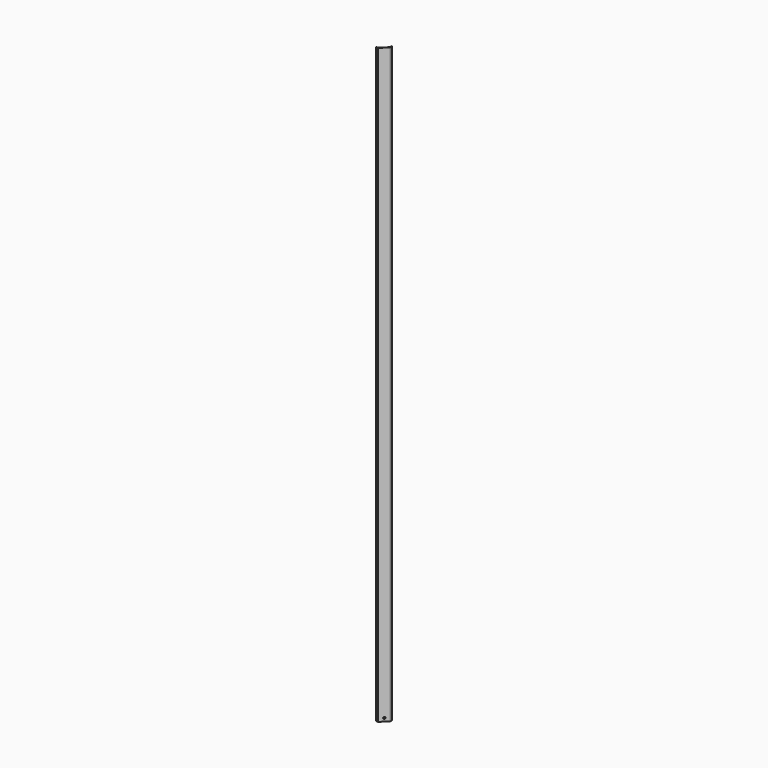
from build123d import *

# Parameters (mm, degrees)
F1_DEPTH = 28
F3_DEPTH = 2503
F5_DEPTH = 28
F6_R     = 2
F7_R     = 1
F8_R     = 4.25
F9_DEPTH = 25


with BuildPart() as f1:
    # F0 (on Top) → F1 (new body)
    with BuildSketch(Plane.XY):
        Polygon((-19.75, -17.750001), (-19.75, -19.75), (-9.25, -19.75), (19.75, 9.25), (19.75, 19.75), (17.750001, 19.75), (17.750001, 10.078427), (-10.078427, -17.750001), align=None)
    extrude(amount=F1_DEPTH)

    # F2 (on face) → F3 (join)
    with BuildSketch(Plane.XY.offset(28)):
        Polygon((-19.75, -19.75), (-9.25, -19.75), (19.75, 9.25), (19.75, 19.75), (11.25, 19.75), (11.25, 24.25), (9.25, 26.25), (9.25, 23.421573), (9.25, 19.75), (9.25, 17.750001), (17.750001, 17.750001), (17.750001, 10.078427), (16.585787, 8.914213), (-8.914213, -16.585787), (-10.078427, -17.750001), (-17.750001, -17.750001), (-17.750001, -9.25), (-19.75, -9.25), (-23.421573, -9.25), (-26.25, -9.25), (-24.25, -11.25), (-19.75, -11.25), align=None)
    extrude(amount=F3_DEPTH)

    # F4 (on face) → F5 (join)
    with BuildSketch(Plane.XY.offset(2531)):
        Polygon((19.75, 9.25), (19.75, 19.75), (17.750001, 19.75), (17.750001, 10.078427), (-10.078427, -17.750001), (-19.75, -17.750001), (-19.75, -19.75), (-9.25, -19.75), align=None)
    extrude(amount=F5_DEPTH)

    # F6
    f6_edges = [f1.edges().sort_by_distance(p)[0] for p in [
        (19.75, 9.25, 1279.5),
        (-9.25, -19.75, 1279.5),
    ]]
    fillet(f6_edges, radius=F6_R)

    # F7
    f7_edges = [f1.edges().sort_by_distance(p)[0] for p in [
        (-19.75, -19.75, 1279.5),
        (19.75, 19.75, 1279.5),
    ]]
    fillet(f7_edges, radius=F7_R)

    # F8 (on face) → F9 (cut)
    with BuildSketch(Plane(origin=(5.25, -5.25, 0), x_dir=(0.707107, 0.707107, 0), z_dir=(0.707107, -0.707107, 0))):
        with Locations((0, 14)):
            Circle(F8_R)
    extrude(amount=-F9_DEPTH, mode=Mode.SUBTRACT)


solid = f1.part
